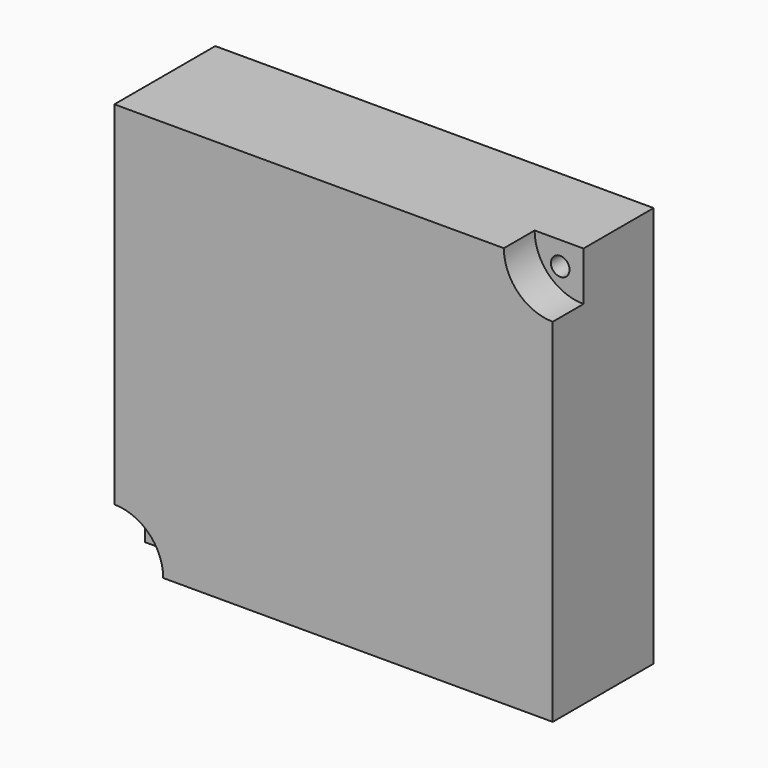
from build123d import *

# Parameters (mm, degrees)
CYLINDER003_W             = 5.25
CYLINDER003_H             = 4.13
CYLINDER003_ANGLE         = 90
CYLINDER002_R             = 1
CYLINDER002_DEPTH         = 13.55
FUSION002_PLACEMENT_ANGLE = 180
CYLINDER001_W             = 5.25
CYLINDER001_H             = 4.13
CYLINDER001_ANGLE         = 90
CYLINDER_R                = 1
CYLINDER_DEPTH            = 13.55
BOX_W                     = 47.1
BOX_H                     = 13.55
BOX_DEPTH                 = 43.1


with BuildPart() as obj1:
    # Cylinder003 → Cylinder003 (revolve)
    with BuildSketch(Plane(origin=(0, 4.13, 0), x_dir=(1, 0, 0), z_dir=(0, 0, -1))):
        with Locations((2.625, 2.065)):
            Rectangle(CYLINDER003_W, CYLINDER003_H)
    revolve(axis=Axis((0, 4.13, 0), (0, -1, 0)), revolution_arc=CYLINDER003_ANGLE)


with BuildPart() as obj2:
    # Cylinder002 → Cylinder002 (new body)
    with BuildSketch(Plane(origin=(2.5, 13.55, 2.5), x_dir=(1, 0, 0), z_dir=(0, -1, 0))):
        Circle(CYLINDER002_R)
    extrude(amount=CYLINDER002_DEPTH)

    # Fusion002: union obj1
    add(obj1.part)


with BuildPart() as obj2_1:
    # Fusion002 placement: moved
    add(obj2.part.moved(Location((47.1, 0, 43.1))).rotate(Axis((47.1, 0, 43.1), (0, 1, 0)), FUSION002_PLACEMENT_ANGLE))


with BuildPart() as obj3:
    # Cylinder001 → Cylinder001 (revolve)
    with BuildSketch(Plane(origin=(0, 4.13, 0), x_dir=(1, 0, 0), z_dir=(0, 0, -1))):
        with Locations((2.625, 2.065)):
            Rectangle(CYLINDER001_W, CYLINDER001_H)
    revolve(axis=Axis((0, 4.13, 0), (0, -1, 0)), revolution_arc=CYLINDER001_ANGLE)


with BuildPart() as fusion003:
    # Cylinder → Cylinder (new body)
    with BuildSketch(Plane(origin=(2.5, 13.55, 2.5), x_dir=(1, 0, 0), z_dir=(0, -1, 0))):
        Circle(CYLINDER_R)
    extrude(amount=CYLINDER_DEPTH)

    # Fusion001: union obj3
    add(obj3.part)

    # Fusion003: union obj2
    add(obj2_1.part)


with BuildPart() as ips7100v:
    # Box → Box (new body)
    with BuildSketch(Plane.XY):
        with Locations((23.55, 6.775)):
            Rectangle(BOX_W, BOX_H)
    extrude(amount=BOX_DEPTH)

    # Cut: cut Fusion003
    add(fusion003.part, mode=Mode.SUBTRACT)


with BuildPart() as ips7100v_1:
    # Cut placement: moved
    add(ips7100v.part.moved(Location((15, -42, 7.55))))


solid = ips7100v_1.part
